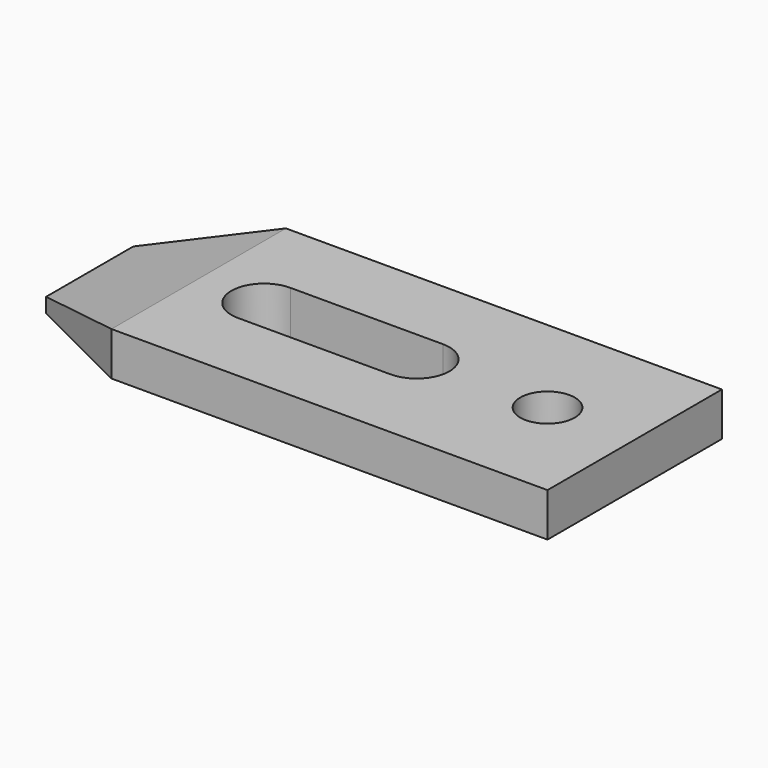
from build123d import *

# Parameters (mm, degrees)
F0_R     = 1.25
F1_DEPTH = 2
F2_SIZE2 = 1.3397459622
F2_SIZE  = 5


with BuildPart() as f1:
    # F0 (on Top) → F1 (new body)
    with BuildSketch(Plane.XY):
        Polygon((15, -5), (15, 5), (-5, 5), (-10, 2.5), (-10, -2.5), (-5, -5), align=None)
        with BuildLine():
            ThreePointArc((-2, -1.5), (-3.5, 0), (-2, 1.5))
            Line((-2, 1.5), (5, 1.5))
            ThreePointArc((5, 1.5), (6.5, 0), (5, -1.5))
            Line((5, -1.5), (-2, -1.5))
        make_face(mode=Mode.SUBTRACT)
        with Locations((11, 0)):
            Circle(F0_R, mode=Mode.SUBTRACT)
    extrude(amount=F1_DEPTH)

    # F2
    f2_edges = [f1.edges().sort_by_distance(p)[0] for p in [
        (-10, 0, 2),
    ]]
    f2_side = f1.faces().sort_by_distance((14.730742, 0, 2))[0]
    chamfer(f2_edges, length=F2_SIZE, length2=F2_SIZE2, reference=f2_side)


solid = f1.part
